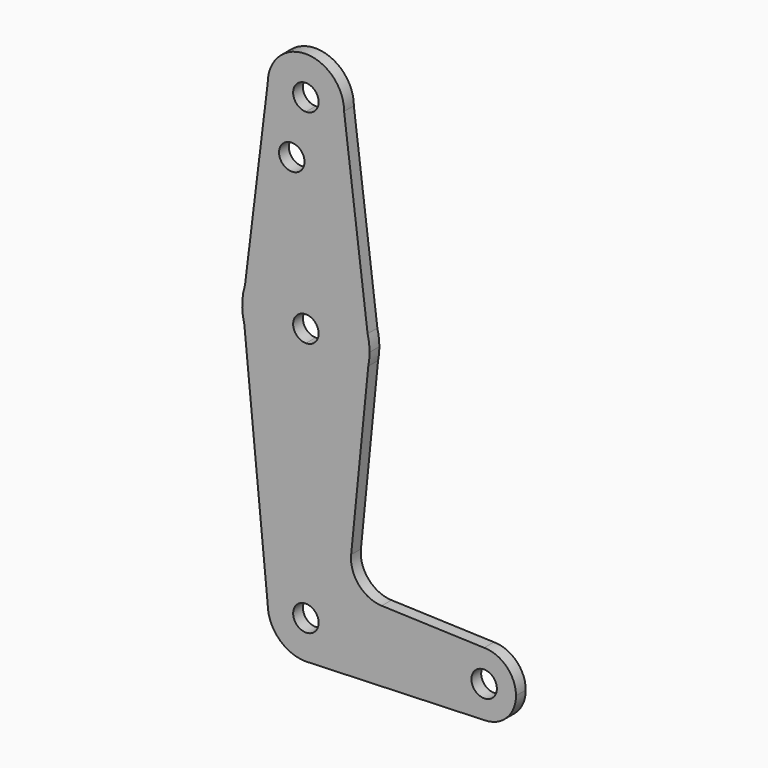
from build123d import *

# Parameters (mm, degrees)
F0_R     = 3.175
F1_DEPTH = 3.048
F2_DEPTH = 3.048


with BuildPart() as f1:
    # F0 (on Front) → F1 (new body)
    with BuildSketch(Plane.XZ):
        with BuildLine():
            ThreePointArc((0, 9.525), (-6.7351920908, 6.7351920908), (-9.525, 0))
            ThreePointArc((-9.525, 0), (-6.7351920908, -6.7351920908), (0, -9.525))
            Line((0, -9.525), (0.6774814286, -9.5008759551))
            ThreePointArc((0.6774814286, -9.5008759551), (6.9706038335, -6.4912485083), (9.525, 0))
            Line((9.525, 0), (3.175, 0))
            ThreePointArc((3.175, 0), (-2.2450640303, -2.2450640303), (0, 3.175))
            Line((0, 3.175), (0, 9.525))
        make_face()
        with BuildLine():
            Line((-15.3511220626, 59.4554139373), (-9.525, 0))
            ThreePointArc((-9.525, 0), (-6.7351920908, 6.7351920908), (0, 9.525))
            Line((0, 9.525), (0, 47.625))
            ThreePointArc((0, 47.625), (-9.6904030168, 50.9257519361), (-15.3511220626, 59.4554139373))
        make_face()
        with BuildLine():
            Line((0.6774814286, -9.5008759551), (0, -9.525))
            ThreePointArc((0, -9.525), (0.3389554011, -9.5189670782), (0.6774814286, -9.5008759551))
        make_face()
        with BuildLine():
            Line((0, 47.625), (0, 9.525))
            ThreePointArc((0, 9.525), (6.7351920908, 6.7351920908), (9.525, 0))
            Line((9.525, 0), (36.5033729672, 0))
            ThreePointArc((36.5033729672, 0), (38.8282128916, 5.6126600757), (44.4408729672, 7.9375))
            Line((44.4408729672, 7.9375), (18.9105009832, 8.8494862599))
            ThreePointArc((18.9105009832, 8.8494862599), (13.2053222676, 11.5660761019), (11.2835693213, 17.5856932127))
            Line((11.2835693213, 17.5856932127), (15.5606435644, 60.3564356436))
            ThreePointArc((15.5606435644, 60.3564356436), (10.0526499203, 51.2134278751), (0, 47.625))
        make_face()
        with BuildLine():
            Line((-15.7474569047, 63.5), (-15.3511220626, 59.4554139373))
            ThreePointArc((-15.3511220626, 59.4554139373), (-9.6904030168, 50.9257519361), (0, 47.625))
            Line((0, 47.625), (0, 60.325))
            ThreePointArc((0, 60.325), (-3.175, 63.5), (0, 66.675))
            Line((0, 66.675), (0, 79.375))
            ThreePointArc((0, 79.375), (-9.4373124403, 76.2652950966), (-15.1773326891, 68.1544814368))
            Line((-15.1773326891, 68.1544814368), (-15.7474569047, 63.5))
        make_face()
        with BuildLine():
            ThreePointArc((-15.1773326891, 68.1544814368), (-15.8718329509, 63.8170863895), (-15.3511220626, 59.4554139373))
            Line((-15.3511220626, 59.4554139373), (-15.7474569047, 63.5))
            Line((-15.7474569047, 63.5), (-15.1773326891, 68.1544814368))
        make_face()
        with BuildLine():
            ThreePointArc((9.525, 0), (6.9706038335, -6.4912485083), (0.6774814286, -9.5008759551))
            Line((0.6774814286, -9.5008759551), (44.7233358015, -7.9324725652))
            ThreePointArc((44.7233358015, -7.9324725652), (38.9289832049, -5.7116527817), (36.5033729672, 0))
            Line((36.5033729672, 0), (9.525, 0))
        make_face()
        with BuildLine():
            Line((0, 60.325), (0, 47.625))
            ThreePointArc((0, 47.625), (10.0526499203, 51.2134278751), (15.5606435644, 60.3564356436))
            Line((15.5606435644, 60.3564356436), (15.875, 63.5))
            Line((15.875, 63.5), (15.3865384615, 67.4076923077))
            ThreePointArc((15.3865384615, 67.4076923077), (9.7463072395, 76.0309664508), (0, 79.375))
            Line((0, 79.375), (0, 66.675))
            ThreePointArc((0, 66.675), (2.2450640303, 65.7450640303), (3.175, 63.5))
            ThreePointArc((3.175, 63.5), (2.2450640303, 61.2549359697), (0, 60.325))
        make_face()
        with BuildLine():
            Line((-9.525, 114.3), (-15.1773326891, 68.1544814368))
            ThreePointArc((-15.1773326891, 68.1544814368), (-9.4373124403, 76.2652950966), (0, 79.375))
            Line((0, 79.375), (0, 104.775))
            ThreePointArc((0, 104.775), (-6.7351920908, 107.5648079092), (-9.525, 114.3))
        make_face()
        with Locations((-3.5157317761, 100.0252)):
            Circle(F0_R, mode=Mode.SUBTRACT)
        with BuildLine():
            ThreePointArc((36.5033729672, 0), (38.9289832049, -5.7116527817), (44.7233358015, -7.9324725652))
            ThreePointArc((44.7233358015, -7.9324725652), (50.1525257489, -5.5118897623), (52.3783729672, 0))
            ThreePointArc((52.3783729672, 0), (50.0535330429, 5.6126600757), (44.4408729672, 7.9375))
            ThreePointArc((44.4408729672, 7.9375), (38.8282128916, 5.6126600757), (36.5033729672, 0))
        make_face()
        with BuildLine():
            ThreePointArc((47.6158729672, 0), (44.4408729672, -3.175), (41.2658729672, 0))
            ThreePointArc((41.2658729672, 0), (44.4408729672, 3.175), (47.6158729672, 0))
        make_face(mode=Mode.SUBTRACT)
        with BuildLine():
            Line((15.875, 63.5), (15.5606435644, 60.3564356436))
            ThreePointArc((15.5606435644, 60.3564356436), (15.7962153946, 61.9203784605), (15.875, 63.5))
        make_face()
        with BuildLine():
            Line((0, 104.775), (0, 79.375))
            ThreePointArc((0, 79.375), (9.7463072395, 76.0309664508), (15.3865384615, 67.4076923077))
            Line((15.3865384615, 67.4076923077), (9.525, 114.3))
            ThreePointArc((9.525, 114.3), (6.7351920908, 107.5648079092), (0, 104.775))
        make_face()
        with BuildLine():
            ThreePointArc((9.525, 114.3), (0, 123.825), (-9.525, 114.3))
            ThreePointArc((-9.525, 114.3), (-6.7351920908, 107.5648079092), (0, 104.775))
            ThreePointArc((0, 104.775), (6.7351920908, 107.5648079092), (9.525, 114.3))
        make_face()
        with BuildLine():
            ThreePointArc((3.175, 114.3), (2.2450640303, 112.0549359697), (0, 111.125))
            ThreePointArc((0, 111.125), (-2.2450640303, 116.5450640303), (3.175, 114.3))
        make_face(mode=Mode.SUBTRACT)
        with BuildLine():
            Line((15.3865384615, 67.4076923077), (15.875, 63.5))
            ThreePointArc((15.875, 63.5), (15.7524112928, 65.4690514116), (15.3865384615, 67.4076923077))
        make_face()
    extrude(amount=F1_DEPTH)

    # F0 (on Front) → F2 (join)
    with BuildSketch(Plane.XZ):
        with BuildLine():
            ThreePointArc((9.525, 0), (6.7351920908, 6.7351920908), (0, 9.525))
            Line((0, 9.525), (0, 3.175))
            ThreePointArc((0, 3.175), (2.2450640303, 2.2450640303), (3.175, 0))
            Line((3.175, 0), (9.525, 0))
        make_face()
    extrude(amount=F2_DEPTH)


solid = f1.part
